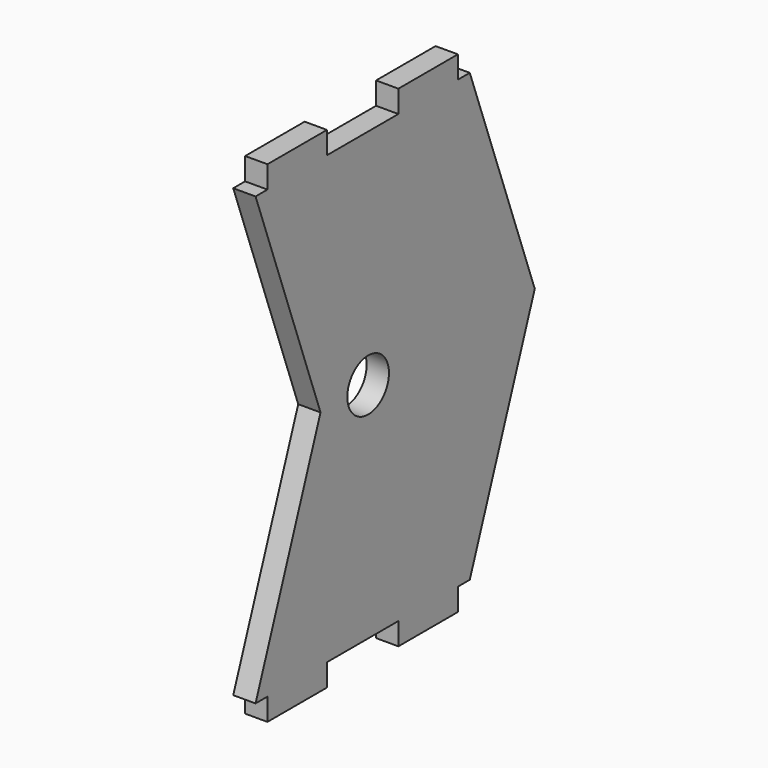
from build123d import *

# Parameters (mm, degrees)
F0_R     = 1.75
F1_DEPTH = 1.5


with BuildPart() as f1:
    # F0 (on Right) → F1 (new body)
    with BuildSketch(Plane.YZ):
        Polygon((-3, -1.5), (-3, 0), (3, 0), (3, -1.5), (8, -1.5), (8, 0), (9, 0), (14.459554, 15), (9, 30), (8, 30), (8, 31.5), (3, 31.5), (3, 30), (-3, 30), (-3, 31.5), (-8, 31.5), (-8, 30), (-9, 30), (-3.540446, 15), (-9, 0), (-8, 0), (-8, -1.5), align=None)
        with Locations((0.459554, 15)):
            Circle(F0_R, mode=Mode.SUBTRACT)
    extrude(amount=F1_DEPTH)


solid = f1.part
